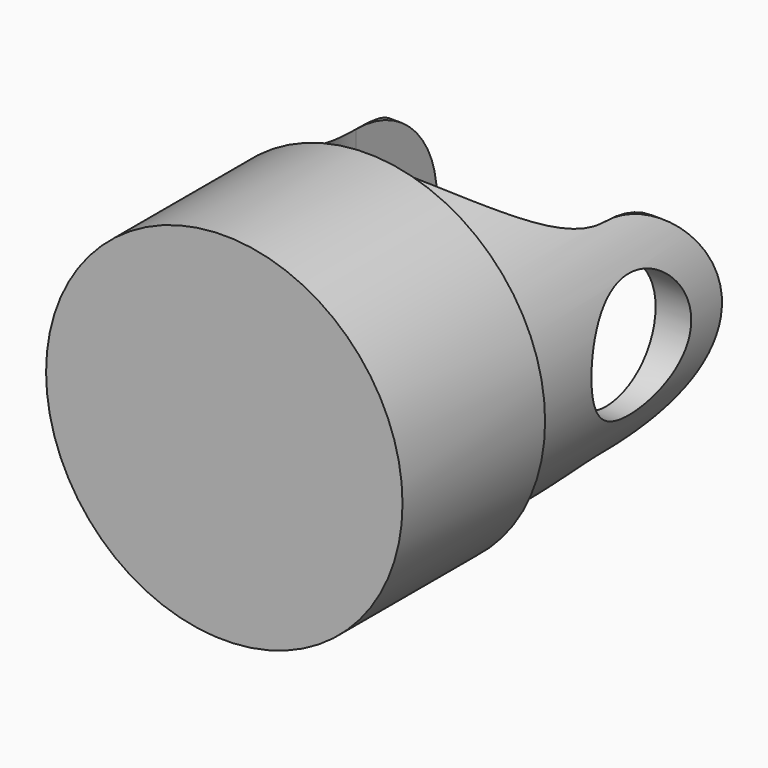
from build123d import *

# Parameters (mm, degrees)
F0_R     = 50
F1_DEPTH = 50
F2_R     = 45
F3_DEPTH = 80
F5_DEPTH = 100
F6_R     = 17.5
F7_DEPTH = 100


with BuildPart() as f1:
    # F0 (on Front) → F1 (new body)
    with BuildSketch(Plane.XZ):
        Circle(F0_R)
    extrude(amount=-F1_DEPTH)

    # F2 (on face) → F3 (join)
    with BuildSketch(Plane(origin=(0, 50, 0), x_dir=(-1, 0, 0), z_dir=(0, 1, 0))):
        Circle(F2_R)
    extrude(amount=F3_DEPTH)

    # F4 (on Top) → F5 (cut, symmetric)
    with BuildSketch(Plane.XY):
        with BuildLine():
            ThreePointArc((-35, 90), (0, 55), (35, 90))
            ThreePointArc((35, 90), (0, 125), (-35, 90))
        make_face()
        with BuildLine():
            ThreePointArc((-35, 90), (0, 125), (35, 90))
            Line((35, 90), (35, 130))
            Line((35, 130), (-35, 130))
            Line((-35, 130), (-35, 90))
        make_face()
    extrude(amount=F5_DEPTH, both=True, mode=Mode.SUBTRACT)

    # F6 (on face) → F7 (cut, symmetric)
    with BuildSketch(Plane.YZ.offset(-35)):
        with Locations((90, 0)):
            Circle(F6_R)
        with BuildLine():
            ThreePointArc((90, 28.2842712475), (118.2842712475, 0), (90, -28.2842712475))
            Line((90, -28.2842712475), (130, -28.2842712475))
            Line((130, -28.2842712475), (130, 28.2842712475))
            Line((130, 28.2842712475), (90, 28.2842712475))
        make_face()
    extrude(amount=F7_DEPTH, both=True, mode=Mode.SUBTRACT)


solid = f1.part
